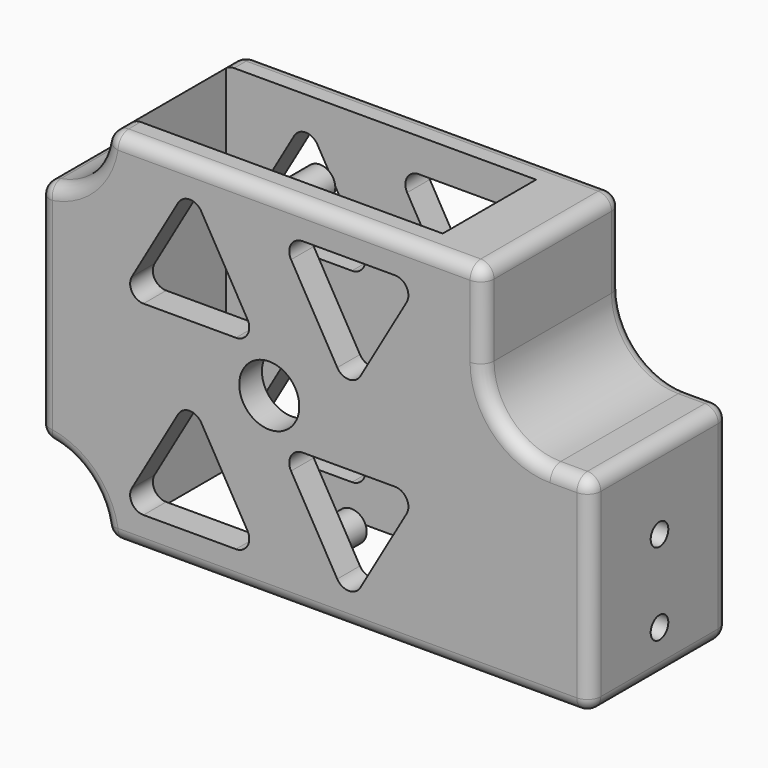
from build123d import *

# Parameters (mm, degrees)
F1_DEPTH  = 26
F2_W      = 46.52
F2_H      = 17.5
F3_DEPTH  = 53.901
F5_D      = 9
F5_DEPTH  = 12
F5_TIP    = 2.7038727856
F7_D      = 3.3
F7_DEPTH  = 30
F7_TIP    = 0.9914200214
F9_D      = 5
F9_DEPTH  = 12.5
F9_TIP    = 1.5021515476
F11_D     = 4.6
F11_DEPTH = 12.5
F11_TIP   = 1.3819794238
F10_R     = 2.3
F12_DEPTH = 13
F14_DEPTH = 26.001
F15_R     = 2


with BuildPart() as f1:
    # F0 (on Front) → F1 (new body)
    with BuildSketch(Plane.XZ):
        with BuildLine():
            Line((23.3, 53.9), (-29.4678404338, 53.9))
            ThreePointArc((-29.4678404338, 53.9), (-30.7588348825, 53.4275252317), (-31.4398670282, 52.2333333333))
            ThreePointArc((-31.4398670282, 52.2333333333), (-34.2289321881, 46.8289321881), (-39.6333333333, 44.0398670282))
            ThreePointArc((-39.6333333333, 44.0398670282), (-40.8275252317, 43.3588348825), (-41.3, 42.0678404338))
            Line((-41.3, 42.0678404338), (-41.3, 11.8321595662))
            ThreePointArc((-41.3, 11.8321595662), (-40.8275252317, 10.5411651175), (-39.6333333333, 9.8601329718))
            ThreePointArc((-39.6333333333, 9.8601329718), (-34.2289321881, 7.0710678119), (-31.4398670282, 1.6666666667))
            ThreePointArc((-31.4398670282, 1.6666666667), (-30.7588348825, 0.4724747683), (-29.4678404338, 0))
            Line((-29.4678404338, 0), (39.3, 0))
            ThreePointArc((39.3, 0), (40.7142135624, 0.5857864376), (41.3, 2))
            Line((41.3, 2), (41.3, 29.08))
            ThreePointArc((41.3, 29.08), (40.7142135624, 30.4942135624), (39.3, 31.08))
            Line((39.3, 31.08), (35.3, 31.08))
            ThreePointArc((35.3, 31.08), (28.2289321881, 34.0089321881), (25.3, 41.08))
            Line((25.3, 41.08), (25.3, 51.9))
            ThreePointArc((25.3, 51.9), (24.7142135624, 53.3142135624), (23.3, 53.9))
        make_face()
    extrude(amount=-F1_DEPTH)

    # F2 (on face) → F3 (cut, through all)
    with BuildSketch(Plane.XY.offset(53.9)):
        with Locations((-7.46, 13)):
            Rectangle(F2_W, F2_H)
    extrude(amount=-F3_DEPTH, mode=Mode.SUBTRACT)

    # F5
    with Locations(Plane.XZ):
        with Locations((-6.8, 26.9)):
            Hole(F5_D / 2, depth=F5_DEPTH)
            with Locations((0, 0, -(F5_DEPTH + F5_TIP / 2))):  # 118° drill point
                Cone(0, F5_D / 2, F5_TIP, mode=Mode.SUBTRACT)

    # F7
    with Locations(Plane.YZ.offset(41.3)):
        with Locations((13, 18.95), (13, 6.65)):
            Hole(F7_D / 2, depth=F7_DEPTH)
            with Locations((0, 0, -(F7_DEPTH + F7_TIP / 2))):  # 118° drill point
                Cone(0, F7_D / 2, F7_TIP, mode=Mode.SUBTRACT)

    # F9
    with Locations(Plane(origin=(0, 0, 0), x_dir=(1, 0, 0), z_dir=(0, 0, -1))):
        with Locations((36, -13), (21, -13)):
            Hole(F9_D / 2, depth=F9_DEPTH)
            with Locations((0, 0, -(F9_DEPTH + F9_TIP / 2))):  # 118° drill point
                Cone(0, F9_D / 2, F9_TIP, mode=Mode.SUBTRACT)

    # F11
    with Locations(Plane.XZ):
        with Locations((-9.6, 48.9), (-4.9, 5)):
            Hole(F11_D / 2, depth=F11_DEPTH)
            with Locations((0, 0, -(F11_DEPTH + F11_TIP / 2))):  # 118° drill point
                Cone(0, F11_D / 2, F11_TIP, mode=Mode.SUBTRACT)

    # F10 (on face) → F12 (join)
    with BuildSketch(Plane.XZ):
        with Locations((-9.6, 48.9)):
            Circle(F10_R)
        with Locations((-4.9, 5)):
            Circle(F10_R)
    extrude(amount=-F12_DEPTH)

    # F13 (on face) → F14 (cut, through all)
    with BuildSketch(Plane.XZ):
        with BuildLine():
            Line((-10.0679491924, 35.9), (-16.9961524227, 47.9))
            ThreePointArc((-16.9961524227, 47.9), (-18.7282032303, 48.9), (-20.4602540378, 47.9))
            Line((-20.4602540378, 47.9), (-27.3884572681, 35.9))
            ThreePointArc((-27.3884572681, 35.9), (-27.3884572681, 33.9), (-25.6564064606, 32.9))
            Line((-25.6564064606, 32.9), (-11.8, 32.9))
            ThreePointArc((-11.8, 32.9), (-10.0679491924, 33.9), (-10.0679491924, 35.9))
        make_face()
        with BuildLine():
            Line((12.0564064606, 48.9), (-1.8, 48.9))
            ThreePointArc((-1.8, 48.9), (-3.5320508076, 47.9), (-3.5320508076, 45.9))
            Line((-3.5320508076, 45.9), (3.3961524227, 33.9))
            ThreePointArc((3.3961524227, 33.9), (5.1282032303, 32.9), (6.8602540378, 33.9))
            Line((6.8602540378, 33.9), (13.7884572681, 45.9))
            ThreePointArc((13.7884572681, 45.9), (13.7884572681, 47.9), (12.0564064606, 48.9))
        make_face()
        with BuildLine():
            Line((-20.4602540378, 20), (-27.3884572681, 8))
            ThreePointArc((-27.3884572681, 8), (-27.3884572681, 6), (-25.6564064606, 5))
            Line((-25.6564064606, 5), (-11.8, 5))
            ThreePointArc((-11.8, 5), (-10.0679491924, 6), (-10.0679491924, 8))
            Line((-10.0679491924, 8), (-16.9961524227, 20))
            ThreePointArc((-16.9961524227, 20), (-18.7282032303, 21), (-20.4602540378, 20))
        make_face()
        with BuildLine():
            ThreePointArc((-1.8, 21), (-3.5320508076, 20), (-3.5320508076, 18))
            Line((-3.5320508076, 18), (3.3961524227, 6))
            ThreePointArc((3.3961524227, 6), (5.1282032303, 5), (6.8602540378, 6))
            Line((6.8602540378, 6), (13.7884572681, 18))
            ThreePointArc((13.7884572681, 18), (13.7884572681, 20), (12.0564064606, 21))
            Line((12.0564064606, 21), (-1.8, 21))
        make_face()
    extrude(amount=-F14_DEPTH, mode=Mode.SUBTRACT)

    # F15
    f15_edges = [f1.edges().sort_by_distance(p)[0] for p in [
        (-41.3, 13, 42.06784),
        (-41.3, 13, 11.83216),
        (-41.3, 0, 26.95),
        (-41.3, 26, 26.95),
    ]]
    fillet(f15_edges, radius=F15_R)


solid = f1.part
